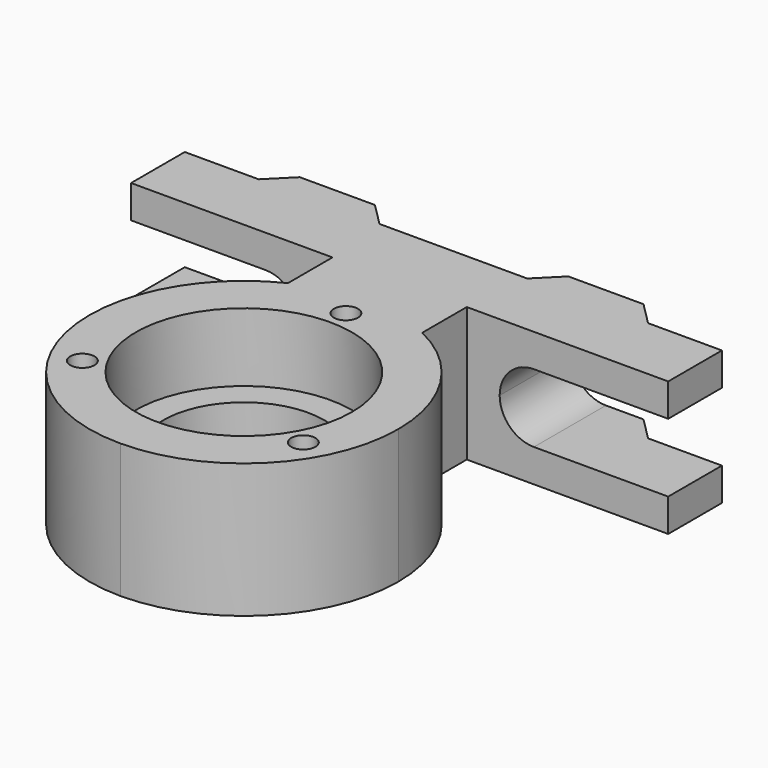
from build123d import *

# Parameters (mm, degrees)
F1_DEPTH = 10
F2_R     = 6
F3_DEPTH = 10
F2_R_2   = 8.05
F2_R_3   = 0.9
F4_DEPTH = 5.1
F7_DEPTH = 6.7


with BuildPart() as f1:
    # F0 (on Top) → F1 (new body)
    with BuildSketch(Plane.XY):
        with BuildLine():
            Line((-5, 14.5), (-5, 10.3561575886))
            ThreePointArc((-5, 10.3561575886), (0, 11.5), (5, 10.3561575886))
            Line((5, 10.3561575886), (5, 14.5))
            Line((5, 14.5), (20, 14.5))
            Line((20, 14.5), (20, 19.5))
            Line((20, 19.5), (14.5, 19.5))
            Line((14.5, 19.5), (12.8, 21.2))
            Line((12.8, 21.2), (7.2, 21.2))
            Line((7.2, 21.2), (5.5, 19.5))
            Line((5.5, 19.5), (-5.5, 19.5))
            Line((-5.5, 19.5), (-7.2, 21.2))
            Line((-7.2, 21.2), (-12.8, 21.2))
            Line((-12.8, 21.2), (-14.5, 19.5))
            Line((-14.5, 19.5), (-20, 19.5))
            Line((-20, 19.5), (-20, 14.5))
            Line((-20, 14.5), (-5, 14.5))
        make_face()
        with BuildLine():
            ThreePointArc((-5, 10.3561575886), (-11.2103927672, -2.5645845676), (5.56e-08, -11.5))
            ThreePointArc((5.56e-08, -11.5), (8.1317280033, -8.131727964), (11.5, 0))
            ThreePointArc((11.5, 0), (9.7403798694, 6.1135096303), (5, 10.3561575886))
            ThreePointArc((5, 10.3561575886), (0, 11.5), (-5, 10.3561575886))
        make_face()
    extrude(amount=F1_DEPTH)

    # F2 (on face) → F3 (cut, through all)
    with BuildSketch(Plane.XY.offset(10)):
        Circle(F2_R)
    extrude(amount=-F3_DEPTH, mode=Mode.SUBTRACT)

    # F2 (on face) → F4 (cut)
    with BuildSketch(Plane.XY.offset(10)):
        Circle(F2_R_2)
        Circle(F2_R, mode=Mode.SUBTRACT)
        with Locations((-8.227241336, -4.75)):
            Circle(F2_R_3)
        with Locations((0, 9.5)):
            Circle(F2_R_3)
        with Locations((8.227241336, -4.75)):
            Circle(F2_R_3)
    extrude(amount=-F4_DEPTH, mode=Mode.SUBTRACT)

    # F6 (on offset) → F7 (cut, through all)
    with BuildSketch(Plane(origin=(0, 21.2, 0), x_dir=(-1, 0, 0), z_dir=(0, 1, 0))):
        with BuildLine():
            ThreePointArc((10, 2.45), (11.803122292, 3.196877708), (12.55, 5))
            ThreePointArc((12.55, 5), (11.803122292, 6.803122292), (10, 7.55))
            ThreePointArc((10, 7.55), (7.45, 5), (10, 2.45))
        make_face()
        with BuildLine():
            ThreePointArc((10, 7.55), (11.803122292, 6.803122292), (12.55, 5))
            ThreePointArc((12.55, 5), (11.803122292, 3.196877708), (10, 2.45))
            Line((10, 2.45), (20, 2.45))
            Line((20, 2.45), (20, 7.55))
            Line((20, 7.55), (10, 7.55))
        make_face()
        with BuildLine():
            ThreePointArc((-10, 2.45), (-12.55, 5), (-10, 7.55))
            Line((-10, 7.55), (-20, 7.55))
            Line((-20, 7.55), (-20, 2.45))
            Line((-20, 2.45), (-10, 2.45))
        make_face()
        with BuildLine():
            ThreePointArc((-10, 2.45), (-8.196877708, 3.196877708), (-7.45, 5))
            ThreePointArc((-7.45, 5), (-8.196877708, 6.803122292), (-10, 7.55))
            ThreePointArc((-10, 7.55), (-12.55, 5), (-10, 2.45))
        make_face()
    extrude(amount=-F7_DEPTH, mode=Mode.SUBTRACT)


solid = f1.part
